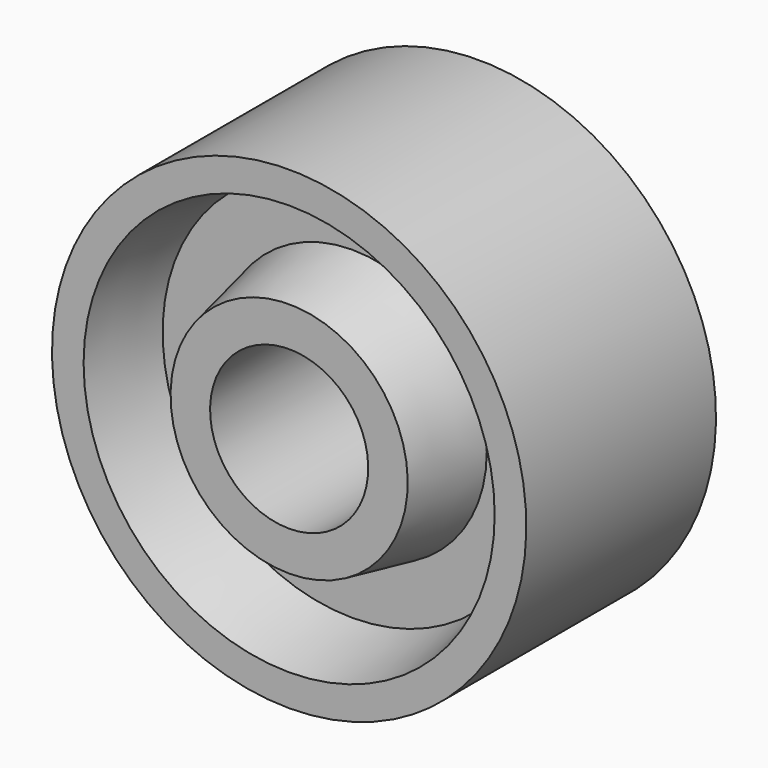
from build123d import *


with BuildPart() as f1:
    # F0 (on Right) → F1 (revolve)
    with BuildSketch(Plane.YZ):
        Polygon((-15, -30), (15, -30), (15, -26), (5, -24), (5, -17), (15, -15), (15, -10), (0, -10), (-15, -10), (-15, -15), (-5, -17), (-5, -24), (-15, -26), align=None)
    revolve(axis=Axis((0, 0, 0), (0, 1, 0)))


solid = f1.part
